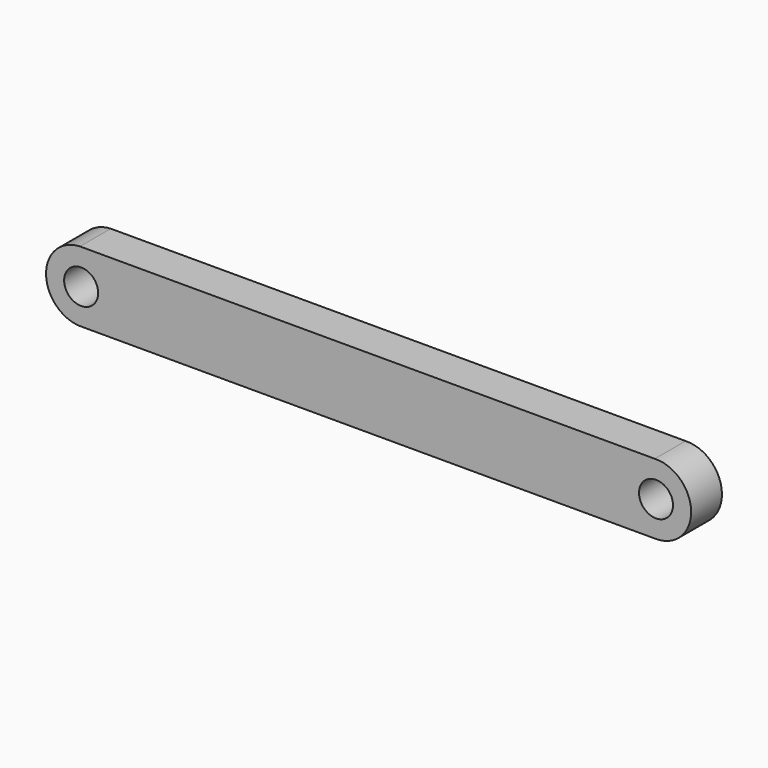
from build123d import *

# Parameters (mm, degrees)
F0_R     = 2.5019
F1_DEPTH = 5.6642


with BuildPart() as f1:
    # F0 (on Front) → F1 (new body)
    with BuildSketch(Plane.XZ):
        with BuildLine():
            Line((62.201412, 5.162847), (-22.03138, 5.162847))
            Line((-22.03138, 5.162847), (-22.38087, 5.162847))
            ThreePointArc((-22.38087, 5.162847), (-27.365937, -0.248725), (-21.883471, -5.155717))
            Line((-21.883471, -5.155717), (62.381241, -5.166))
            ThreePointArc((62.381241, -5.166), (67.547089, 0.089928), (62.201412, 5.162847))
        make_face()
        with Locations((-22.206125, 0)):
            Circle(F0_R, mode=Mode.SUBTRACT)
        with Locations((62.381871, 0)):
            Circle(F0_R, mode=Mode.SUBTRACT)
    extrude(amount=F1_DEPTH)


solid = f1.part
